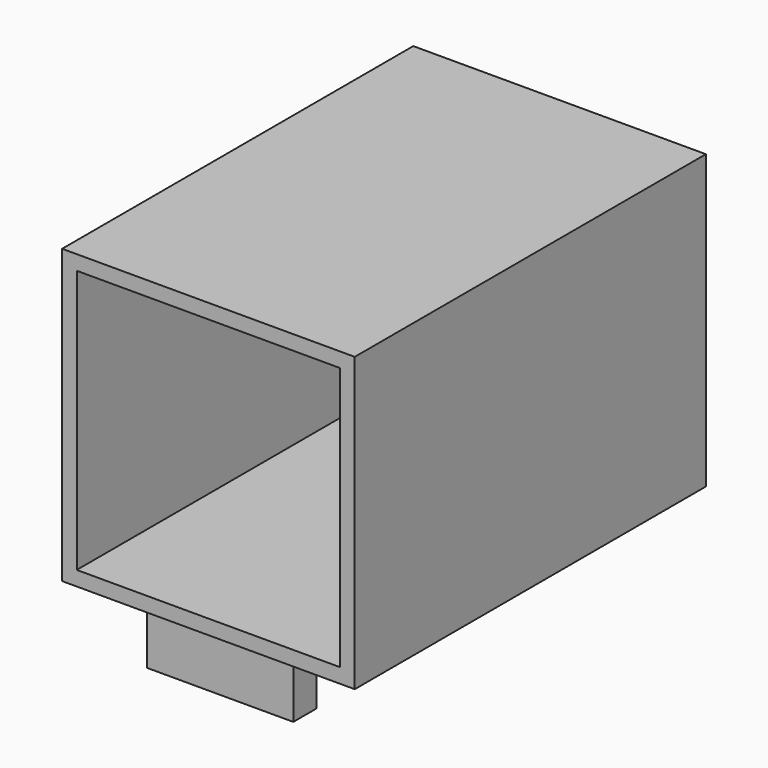
from build123d import *

# Parameters (mm, degrees)
F0_W     = 100
F0_H     = 100
F1_DEPTH = 150
F2_W     = 90
F2_H     = 90
F3_DEPTH = 140
F4_W     = 50
F4_H     = 10
F5_DEPTH = 20


with BuildPart() as f1:
    # F0 (on Front) → F1 (new body)
    with BuildSketch(Plane.XZ):
        with Locations((0.630199, 5.721866)):
            Rectangle(F0_W, F0_H)
    extrude(amount=F1_DEPTH)

    # F2 (on face) → F3 (cut)
    with BuildSketch(Plane.XZ.offset(150)):
        with Locations((0.630199, 5.721866)):
            Rectangle(F2_W, F2_H)
    extrude(amount=-F3_DEPTH, mode=Mode.SUBTRACT)

    # F4 (on face) → F5 (join)
    with BuildSketch(Plane(origin=(0, 0, -44.278134), x_dir=(1, 0, 0), z_dir=(0, 0, -1))):
        with Locations((0.630199, 140)):
            Rectangle(F4_W, F4_H)
        with Locations((0.630199, 95)):
            Rectangle(F4_W, F4_H)
    extrude(amount=F5_DEPTH)


solid = f1.part
